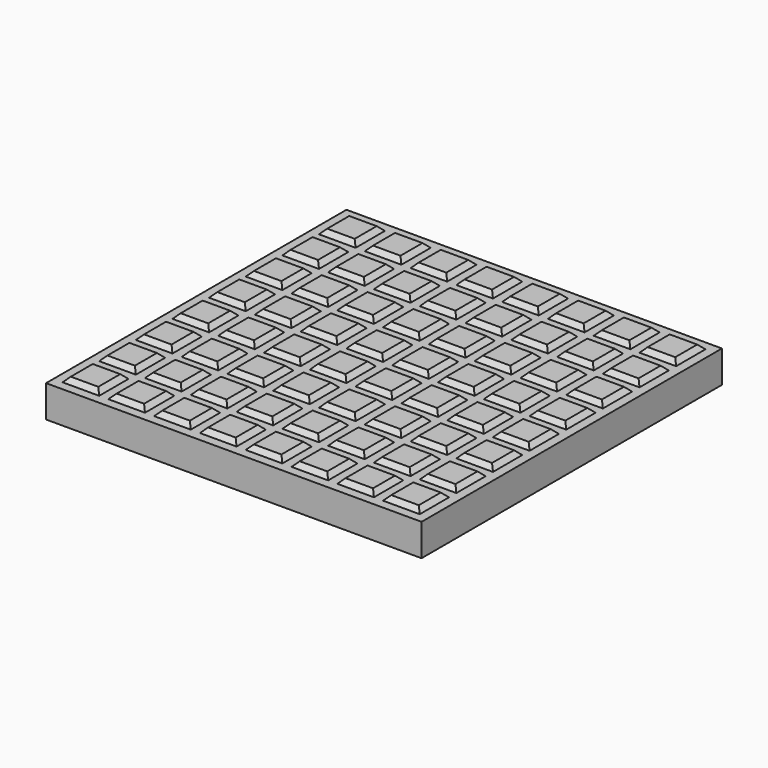
from build123d import *

# Parameters (mm, degrees)
F0_W     = 25.4
F0_H     = 25.4
F1_DEPTH = 25.4
F0_W_2   = 260.35
F0_H_2   = 260.35
F2_DEPTH = 22.225
F3_SIZE  = 3.175


with BuildPart() as f1:
    # F0 (on Top) → F1 (new body)
    with BuildSketch(Plane.XY):
        with Locations((15.875, 79.375)):
            Rectangle(F0_W, F0_H)
        with Locations((-47.625, -15.875)):
            Rectangle(F0_W, F0_H)
        with Locations((-111.125, -111.125)):
            Rectangle(F0_W, F0_H)
        with Locations((79.375, 79.375)):
            Rectangle(F0_W, F0_H)
        with Locations((-79.375, 47.625)):
            Rectangle(F0_W, F0_H)
        with Locations((-111.125, 111.125)):
            Rectangle(F0_W, F0_H)
        with Locations((-47.625, 111.125)):
            Rectangle(F0_W, F0_H)
        with Locations((-47.625, 79.375)):
            Rectangle(F0_W, F0_H)
        with Locations((15.875, 15.875)):
            Rectangle(F0_W, F0_H)
        with Locations((-15.875, 47.625)):
            Rectangle(F0_W, F0_H)
        with Locations((-79.375, 111.125)):
            Rectangle(F0_W, F0_H)
        with Locations((-47.625, 47.625)):
            Rectangle(F0_W, F0_H)
        with Locations((-79.375, -47.625)):
            Rectangle(F0_W, F0_H)
        with Locations((-47.625, -79.375)):
            Rectangle(F0_W, F0_H)
        with Locations((-111.125, 15.875)):
            Rectangle(F0_W, F0_H)
        with Locations((-15.875, -47.625)):
            Rectangle(F0_W, F0_H)
        with Locations((-111.125, 79.375)):
            Rectangle(F0_W, F0_H)
        with Locations((-79.375, 79.375)):
            Rectangle(F0_W, F0_H)
        with Locations((-111.125, -15.875)):
            Rectangle(F0_W, F0_H)
        with Locations((-79.375, -111.125)):
            Rectangle(F0_W, F0_H)
        with Locations((-15.875, -15.875)):
            Rectangle(F0_W, F0_H)
        with Locations((-15.875, -111.125)):
            Rectangle(F0_W, F0_H)
        with Locations((-79.375, -79.375)):
            Rectangle(F0_W, F0_H)
        with Locations((-47.625, -111.125)):
            Rectangle(F0_W, F0_H)
        with Locations((-111.125, 47.625)):
            Rectangle(F0_W, F0_H)
        with Locations((15.875, -111.125)):
            Rectangle(F0_W, F0_H)
        with Locations((79.375, 47.625)):
            Rectangle(F0_W, F0_H)
        with Locations((15.875, 111.125)):
            Rectangle(F0_W, F0_H)
        with Locations((79.375, 15.875)):
            Rectangle(F0_W, F0_H)
        with Locations((47.625, 15.875)):
            Rectangle(F0_W, F0_H)
        with Locations((79.375, -15.875)):
            Rectangle(F0_W, F0_H)
        with Locations((47.625, 47.625)):
            Rectangle(F0_W, F0_H)
        with Locations((15.875, 47.625)):
            Rectangle(F0_W, F0_H)
        with Locations((47.625, 79.375)):
            Rectangle(F0_W, F0_H)
        with Locations((47.625, 111.125)):
            Rectangle(F0_W, F0_H)
        with Locations((47.625, -15.875)):
            Rectangle(F0_W, F0_H)
        with Locations((-15.875, 15.875)):
            Rectangle(F0_W, F0_H)
        with Locations((79.375, -111.125)):
            Rectangle(F0_W, F0_H)
        with Locations((-15.875, 111.125)):
            Rectangle(F0_W, F0_H)
        with Locations((-15.875, -79.375)):
            Rectangle(F0_W, F0_H)
        with Locations((111.125, -15.875)):
            Rectangle(F0_W, F0_H)
        with Locations((79.375, 111.125)):
            Rectangle(F0_W, F0_H)
        with Locations((-79.375, 15.875)):
            Rectangle(F0_W, F0_H)
        with Locations((15.875, -15.875)):
            Rectangle(F0_W, F0_H)
        with Locations((111.125, -47.625)):
            Rectangle(F0_W, F0_H)
        with Locations((111.125, 79.375)):
            Rectangle(F0_W, F0_H)
        with Locations((15.875, -47.625)):
            Rectangle(F0_W, F0_H)
        with Locations((-47.625, -47.625)):
            Rectangle(F0_W, F0_H)
        with Locations((47.625, -47.625)):
            Rectangle(F0_W, F0_H)
        with Locations((-111.125, -47.625)):
            Rectangle(F0_W, F0_H)
        with Locations((111.125, 111.125)):
            Rectangle(F0_W, F0_H)
        with Locations((47.625, -111.125)):
            Rectangle(F0_W, F0_H)
        with Locations((-15.875, 79.375)):
            Rectangle(F0_W, F0_H)
        with Locations((-111.125, -79.375)):
            Rectangle(F0_W, F0_H)
        with Locations((79.375, -79.375)):
            Rectangle(F0_W, F0_H)
        with Locations((111.125, -111.125)):
            Rectangle(F0_W, F0_H)
        with Locations((111.125, 47.625)):
            Rectangle(F0_W, F0_H)
        with Locations((15.875, -79.375)):
            Rectangle(F0_W, F0_H)
        with Locations((-79.375, -15.875)):
            Rectangle(F0_W, F0_H)
        with Locations((47.625, -79.375)):
            Rectangle(F0_W, F0_H)
        with Locations((79.375, -47.625)):
            Rectangle(F0_W, F0_H)
        with Locations((-47.625, 15.875)):
            Rectangle(F0_W, F0_H)
        with Locations((111.125, 15.875)):
            Rectangle(F0_W, F0_H)
        with Locations((111.125, -79.375)):
            Rectangle(F0_W, F0_H)
    extrude(amount=F1_DEPTH)

    # F3
    f3_edges = [f1.edges().sort_by_distance(p)[0] for p in [
        (-98.425, 111.125, 25.4),
        (-111.125, 123.825, 25.4),
        (-123.825, 111.125, 25.4),
        (-111.125, 98.425, 25.4),
        (-111.125, 92.075, 25.4),
        (-123.825, 79.375, 25.4),
        (-111.125, 66.675, 25.4),
        (-98.425, 79.375, 25.4),
        (-111.125, 60.325, 25.4),
        (-123.825, 47.625, 25.4),
        (-111.125, 34.925, 25.4),
        (-98.425, 47.625, 25.4),
        (-123.825, 15.875, 25.4),
        (-111.125, 3.175, 25.4),
        (-98.425, 15.875, 25.4),
        (-111.125, 28.575, 25.4),
        (-111.125, -28.575, 25.4),
        (-98.425, -15.875, 25.4),
        (-111.125, -3.175, 25.4),
        (-123.825, -15.875, 25.4),
        (-111.125, -34.925, 25.4),
        (-123.825, -47.625, 25.4),
        (-111.125, -60.325, 25.4),
        (-98.425, -47.625, 25.4),
        (-111.125, -66.675, 25.4),
        (-123.825, -79.375, 25.4),
        (-111.125, -92.075, 25.4),
        (-98.425, -79.375, 25.4),
        (-111.125, -98.425, 25.4),
        (-123.825, -111.125, 25.4),
        (-111.125, -123.825, 25.4),
        (-98.425, -111.125, 25.4),
        (-79.375, -123.825, 25.4),
        (-66.675, -111.125, 25.4),
        (-79.375, -98.425, 25.4),
        (-92.075, -111.125, 25.4),
        (-92.075, -79.375, 25.4),
        (-79.375, -92.075, 25.4),
        (-66.675, -79.375, 25.4),
        (-79.375, -66.675, 25.4),
        (-92.075, -47.625, 25.4),
        (-79.375, -60.325, 25.4),
        (-66.675, -47.625, 25.4),
        (-79.375, -34.925, 25.4),
        (-92.075, -15.875, 25.4),
        (-79.375, -28.575, 25.4),
        (-66.675, -15.875, 25.4),
        (-79.375, -3.175, 25.4),
        (-66.675, 15.875, 25.4),
        (-79.375, 28.575, 25.4),
        (-92.075, 15.875, 25.4),
        (-79.375, 3.175, 25.4),
        (-79.375, 60.325, 25.4),
        (-92.075, 47.625, 25.4),
        (-79.375, 34.925, 25.4),
        (-66.675, 47.625, 25.4),
        (-79.375, 92.075, 25.4),
        (-92.075, 79.375, 25.4),
        (-79.375, 66.675, 25.4),
        (-66.675, 79.375, 25.4),
        (-66.675, 111.125, 25.4),
        (-79.375, 123.825, 25.4),
        (-92.075, 111.125, 25.4),
        (-79.375, 98.425, 25.4),
        (-34.925, 111.125, 25.4),
        (-47.625, 123.825, 25.4),
        (-60.325, 111.125, 25.4),
        (-47.625, 98.425, 25.4),
        (-47.625, 92.075, 25.4),
        (-60.325, 79.375, 25.4),
        (-47.625, 66.675, 25.4),
        (-34.925, 79.375, 25.4),
        (-47.625, 60.325, 25.4),
        (-60.325, 47.625, 25.4),
        (-47.625, 34.925, 25.4),
        (-34.925, 47.625, 25.4),
        (-34.925, 15.875, 25.4),
        (-47.625, 28.575, 25.4),
        (-60.325, 15.875, 25.4),
        (-47.625, 3.175, 25.4),
        (-60.325, -15.875, 25.4),
        (-47.625, -28.575, 25.4),
        (-34.925, -15.875, 25.4),
        (-47.625, -3.175, 25.4),
        (-60.325, -47.625, 25.4),
        (-47.625, -60.325, 25.4),
        (-34.925, -47.625, 25.4),
        (-47.625, -34.925, 25.4),
        (-60.325, -79.375, 25.4),
        (-47.625, -92.075, 25.4),
        (-34.925, -79.375, 25.4),
        (-47.625, -66.675, 25.4),
        (-47.625, -123.825, 25.4),
        (-34.925, -111.125, 25.4),
        (-47.625, -98.425, 25.4),
        (-60.325, -111.125, 25.4),
        (-28.575, 111.125, 25.4),
        (-15.875, 98.425, 25.4),
        (-3.175, 111.125, 25.4),
        (-15.875, 123.825, 25.4),
        (-15.875, 92.075, 25.4),
        (-28.575, 79.375, 25.4),
        (-15.875, 66.675, 25.4),
        (-3.175, 79.375, 25.4),
        (-15.875, 60.325, 25.4),
        (-28.575, 47.625, 25.4),
        (-15.875, 34.925, 25.4),
        (-3.175, 47.625, 25.4),
        (-3.175, 15.875, 25.4),
        (-15.875, 28.575, 25.4),
        (-28.575, 15.875, 25.4),
        (-15.875, 3.175, 25.4),
        (-15.875, -3.175, 25.4),
        (-28.575, -15.875, 25.4),
        (-15.875, -28.575, 25.4),
        (-3.175, -15.875, 25.4),
        (-15.875, -34.925, 25.4),
        (-28.575, -47.625, 25.4),
        (-15.875, -60.325, 25.4),
        (-3.175, -47.625, 25.4),
        (-15.875, -66.675, 25.4),
        (-28.575, -79.375, 25.4),
        (-15.875, -92.075, 25.4),
        (-3.175, -79.375, 25.4),
        (-15.875, -123.825, 25.4),
        (-3.175, -111.125, 25.4),
        (-15.875, -98.425, 25.4),
        (-28.575, -111.125, 25.4),
        (28.575, -111.125, 25.4),
        (15.875, -98.425, 25.4),
        (3.175, -111.125, 25.4),
        (15.875, -123.825, 25.4),
        (47.625, -123.825, 25.4),
        (60.325, -111.125, 25.4),
        (47.625, -98.425, 25.4),
        (34.925, -111.125, 25.4),
        (79.375, -123.825, 25.4),
        (92.075, -111.125, 25.4),
        (79.375, -98.425, 25.4),
        (66.675, -111.125, 25.4),
        (123.825, -111.125, 25.4),
        (111.125, -98.425, 25.4),
        (98.425, -111.125, 25.4),
        (111.125, -123.825, 25.4),
        (123.825, -79.375, 25.4),
        (111.125, -66.675, 25.4),
        (98.425, -79.375, 25.4),
        (111.125, -92.075, 25.4),
        (79.375, -92.075, 25.4),
        (92.075, -79.375, 25.4),
        (79.375, -66.675, 25.4),
        (66.675, -79.375, 25.4),
        (47.625, -92.075, 25.4),
        (60.325, -79.375, 25.4),
        (47.625, -66.675, 25.4),
        (34.925, -79.375, 25.4),
        (15.875, -92.075, 25.4),
        (28.575, -79.375, 25.4),
        (15.875, -66.675, 25.4),
        (3.175, -79.375, 25.4),
        (15.875, -60.325, 25.4),
        (28.575, -47.625, 25.4),
        (15.875, -34.925, 25.4),
        (3.175, -47.625, 25.4),
        (34.925, -15.875, 25.4),
        (47.625, -28.575, 25.4),
        (60.325, -15.875, 25.4),
        (47.625, -3.175, 25.4),
        (34.925, -47.625, 25.4),
        (47.625, -60.325, 25.4),
        (60.325, -47.625, 25.4),
        (47.625, -34.925, 25.4),
        (3.175, -15.875, 25.4),
        (15.875, -28.575, 25.4),
        (28.575, -15.875, 25.4),
        (15.875, -3.175, 25.4),
        (123.825, -15.875, 25.4),
        (111.125, -3.175, 25.4),
        (98.425, -15.875, 25.4),
        (111.125, -28.575, 25.4),
        (123.825, -47.625, 25.4),
        (111.125, -34.925, 25.4),
        (98.425, -47.625, 25.4),
        (111.125, -60.325, 25.4),
        (66.675, -47.625, 25.4),
        (79.375, -60.325, 25.4),
        (92.075, -47.625, 25.4),
        (79.375, -34.925, 25.4),
        (66.675, -15.875, 25.4),
        (79.375, -28.575, 25.4),
        (92.075, -15.875, 25.4),
        (79.375, -3.175, 25.4),
        (111.125, 28.575, 25.4),
        (98.425, 15.875, 25.4),
        (111.125, 3.175, 25.4),
        (123.825, 15.875, 25.4),
        (92.075, 15.875, 25.4),
        (79.375, 28.575, 25.4),
        (66.675, 15.875, 25.4),
        (79.375, 3.175, 25.4),
        (60.325, 15.875, 25.4),
        (47.625, 28.575, 25.4),
        (34.925, 15.875, 25.4),
        (47.625, 3.175, 25.4),
        (15.875, 3.175, 25.4),
        (28.575, 15.875, 25.4),
        (15.875, 28.575, 25.4),
        (3.175, 15.875, 25.4),
        (15.875, 34.925, 25.4),
        (28.575, 47.625, 25.4),
        (15.875, 60.325, 25.4),
        (3.175, 47.625, 25.4),
        (15.875, 66.675, 25.4),
        (28.575, 79.375, 25.4),
        (15.875, 92.075, 25.4),
        (3.175, 79.375, 25.4),
        (15.875, 123.825, 25.4),
        (3.175, 111.125, 25.4),
        (15.875, 98.425, 25.4),
        (28.575, 111.125, 25.4),
        (47.625, 34.925, 25.4),
        (60.325, 47.625, 25.4),
        (47.625, 60.325, 25.4),
        (34.925, 47.625, 25.4),
        (123.825, 47.625, 25.4),
        (111.125, 60.325, 25.4),
        (98.425, 47.625, 25.4),
        (111.125, 34.925, 25.4),
        (92.075, 47.625, 25.4),
        (79.375, 60.325, 25.4),
        (66.675, 47.625, 25.4),
        (79.375, 34.925, 25.4),
        (47.625, 92.075, 25.4),
        (34.925, 79.375, 25.4),
        (47.625, 66.675, 25.4),
        (60.325, 79.375, 25.4),
        (60.325, 111.125, 25.4),
        (47.625, 123.825, 25.4),
        (34.925, 111.125, 25.4),
        (47.625, 98.425, 25.4),
        (92.075, 79.375, 25.4),
        (79.375, 92.075, 25.4),
        (66.675, 79.375, 25.4),
        (79.375, 66.675, 25.4),
        (92.075, 111.125, 25.4),
        (79.375, 123.825, 25.4),
        (66.675, 111.125, 25.4),
        (79.375, 98.425, 25.4),
        (123.825, 79.375, 25.4),
        (111.125, 92.075, 25.4),
        (98.425, 79.375, 25.4),
        (111.125, 66.675, 25.4),
        (123.825, 111.125, 25.4),
        (111.125, 123.825, 25.4),
        (98.425, 111.125, 25.4),
        (111.125, 98.425, 25.4),
    ]]
    chamfer(f3_edges, length=F3_SIZE)


with BuildPart() as f2:
    # F0 (on Top) → F2 (new body)
    with BuildSketch(Plane.XY):
        Rectangle(F0_W_2, F0_H_2)
        Polygon((98.425, 123.825), (123.825, 123.825), (123.825, 98.425), (123.825, 92.075), (123.825, 66.675), (123.825, 60.325), (123.825, 34.925), (123.825, 28.575), (123.825, 3.175), (123.825, -3.175), (123.825, -28.575), (123.825, -34.925), (123.825, -60.325), (123.825, -66.675), (123.825, -92.075), (123.825, -98.425), (123.825, -123.825), (98.425, -123.825), (92.075, -123.825), (66.675, -123.825), (60.325, -123.825), (34.925, -123.825), (28.575, -123.825), (3.175, -123.825), (-3.175, -123.825), (-28.575, -123.825), (-34.925, -123.825), (-60.325, -123.825), (-66.675, -123.825), (-92.075, -123.825), (-98.425, -123.825), (-123.825, -123.825), (-123.825, -98.425), (-123.825, -92.075), (-123.825, -66.675), (-123.825, -60.325), (-123.825, -34.925), (-123.825, -28.575), (-123.825, -3.175), (-123.825, 3.175), (-123.825, 28.575), (-123.825, 34.925), (-123.825, 60.325), (-123.825, 66.675), (-123.825, 92.075), (-123.825, 98.425), (-123.825, 123.825), (-98.425, 123.825), (-92.075, 123.825), (-66.675, 123.825), (-60.325, 123.825), (-34.925, 123.825), (-28.575, 123.825), (-3.175, 123.825), (3.175, 123.825), (28.575, 123.825), (34.925, 123.825), (60.325, 123.825), (66.675, 123.825), (92.075, 123.825), align=None, mode=Mode.SUBTRACT)
        Polygon((98.425, 98.425), (98.425, 123.825), (92.075, 123.825), (92.075, 98.425), (66.675, 98.425), (66.675, 123.825), (60.325, 123.825), (60.325, 98.425), (34.925, 98.425), (34.925, 123.825), (28.575, 123.825), (28.575, 98.425), (3.175, 98.425), (3.175, 123.825), (-3.175, 123.825), (-3.175, 98.425), (-28.575, 98.425), (-28.575, 123.825), (-34.925, 123.825), (-34.925, 98.425), (-60.325, 98.425), (-60.325, 123.825), (-66.675, 123.825), (-66.675, 98.425), (-92.075, 98.425), (-92.075, 123.825), (-98.425, 123.825), (-98.425, 98.425), (-123.825, 98.425), (-123.825, 92.075), (-98.425, 92.075), (-98.425, 66.675), (-123.825, 66.675), (-123.825, 60.325), (-98.425, 60.325), (-98.425, 34.925), (-123.825, 34.925), (-123.825, 28.575), (-98.425, 28.575), (-98.425, 3.175), (-123.825, 3.175), (-123.825, -3.175), (-98.425, -3.175), (-98.425, -28.575), (-123.825, -28.575), (-123.825, -34.925), (-98.425, -34.925), (-98.425, -60.325), (-123.825, -60.325), (-123.825, -66.675), (-98.425, -66.675), (-98.425, -92.075), (-123.825, -92.075), (-123.825, -98.425), (-98.425, -98.425), (-98.425, -123.825), (-92.075, -123.825), (-92.075, -98.425), (-66.675, -98.425), (-66.675, -123.825), (-60.325, -123.825), (-60.325, -98.425), (-34.925, -98.425), (-34.925, -123.825), (-28.575, -123.825), (-28.575, -98.425), (-3.175, -98.425), (-3.175, -123.825), (3.175, -123.825), (3.175, -98.425), (28.575, -98.425), (28.575, -123.825), (34.925, -123.825), (34.925, -98.425), (60.325, -98.425), (60.325, -123.825), (66.675, -123.825), (66.675, -98.425), (92.075, -98.425), (92.075, -123.825), (98.425, -123.825), (98.425, -98.425), (123.825, -98.425), (123.825, -92.075), (98.425, -92.075), (98.425, -66.675), (123.825, -66.675), (123.825, -60.325), (98.425, -60.325), (98.425, -34.925), (123.825, -34.925), (123.825, -28.575), (98.425, -28.575), (98.425, -3.175), (123.825, -3.175), (123.825, 3.175), (98.425, 3.175), (98.425, 28.575), (123.825, 28.575), (123.825, 34.925), (98.425, 34.925), (98.425, 60.325), (123.825, 60.325), (123.825, 66.675), (98.425, 66.675), (98.425, 92.075), (123.825, 92.075), (123.825, 98.425), align=None)
        with Locations((-79.375, -79.375)):
            Rectangle(F0_W, F0_H, mode=Mode.SUBTRACT)
        with Locations((-47.625, -79.375)):
            Rectangle(F0_W, F0_H, mode=Mode.SUBTRACT)
        with Locations((-15.875, -79.375)):
            Rectangle(F0_W, F0_H, mode=Mode.SUBTRACT)
        with Locations((-79.375, -47.625)):
            Rectangle(F0_W, F0_H, mode=Mode.SUBTRACT)
        with Locations((-79.375, -15.875)):
            Rectangle(F0_W, F0_H, mode=Mode.SUBTRACT)
        with Locations((-47.625, -47.625)):
            Rectangle(F0_W, F0_H, mode=Mode.SUBTRACT)
        with Locations((-15.875, -47.625)):
            Rectangle(F0_W, F0_H, mode=Mode.SUBTRACT)
        with Locations((-47.625, -15.875)):
            Rectangle(F0_W, F0_H, mode=Mode.SUBTRACT)
        with Locations((-15.875, -15.875)):
            Rectangle(F0_W, F0_H, mode=Mode.SUBTRACT)
        with Locations((15.875, -79.375)):
            Rectangle(F0_W, F0_H, mode=Mode.SUBTRACT)
        with Locations((47.625, -79.375)):
            Rectangle(F0_W, F0_H, mode=Mode.SUBTRACT)
        with Locations((79.375, -79.375)):
            Rectangle(F0_W, F0_H, mode=Mode.SUBTRACT)
        with Locations((15.875, -47.625)):
            Rectangle(F0_W, F0_H, mode=Mode.SUBTRACT)
        with Locations((47.625, -47.625)):
            Rectangle(F0_W, F0_H, mode=Mode.SUBTRACT)
        with Locations((15.875, -15.875)):
            Rectangle(F0_W, F0_H, mode=Mode.SUBTRACT)
        with Locations((47.625, -15.875)):
            Rectangle(F0_W, F0_H, mode=Mode.SUBTRACT)
        with Locations((79.375, -47.625)):
            Rectangle(F0_W, F0_H, mode=Mode.SUBTRACT)
        with Locations((79.375, -15.875)):
            Rectangle(F0_W, F0_H, mode=Mode.SUBTRACT)
        with Locations((-79.375, 15.875)):
            Rectangle(F0_W, F0_H, mode=Mode.SUBTRACT)
        with Locations((-79.375, 47.625)):
            Rectangle(F0_W, F0_H, mode=Mode.SUBTRACT)
        with Locations((-47.625, 15.875)):
            Rectangle(F0_W, F0_H, mode=Mode.SUBTRACT)
        with Locations((-15.875, 15.875)):
            Rectangle(F0_W, F0_H, mode=Mode.SUBTRACT)
        with Locations((-47.625, 47.625)):
            Rectangle(F0_W, F0_H, mode=Mode.SUBTRACT)
        with Locations((-15.875, 47.625)):
            Rectangle(F0_W, F0_H, mode=Mode.SUBTRACT)
        with Locations((-79.375, 79.375)):
            Rectangle(F0_W, F0_H, mode=Mode.SUBTRACT)
        with Locations((-47.625, 79.375)):
            Rectangle(F0_W, F0_H, mode=Mode.SUBTRACT)
        with Locations((-15.875, 79.375)):
            Rectangle(F0_W, F0_H, mode=Mode.SUBTRACT)
        with Locations((15.875, 15.875)):
            Rectangle(F0_W, F0_H, mode=Mode.SUBTRACT)
        with Locations((47.625, 15.875)):
            Rectangle(F0_W, F0_H, mode=Mode.SUBTRACT)
        with Locations((15.875, 47.625)):
            Rectangle(F0_W, F0_H, mode=Mode.SUBTRACT)
        with Locations((47.625, 47.625)):
            Rectangle(F0_W, F0_H, mode=Mode.SUBTRACT)
        with Locations((79.375, 15.875)):
            Rectangle(F0_W, F0_H, mode=Mode.SUBTRACT)
        with Locations((79.375, 47.625)):
            Rectangle(F0_W, F0_H, mode=Mode.SUBTRACT)
        with Locations((15.875, 79.375)):
            Rectangle(F0_W, F0_H, mode=Mode.SUBTRACT)
        with Locations((47.625, 79.375)):
            Rectangle(F0_W, F0_H, mode=Mode.SUBTRACT)
        with Locations((79.375, 79.375)):
            Rectangle(F0_W, F0_H, mode=Mode.SUBTRACT)
    extrude(amount=F2_DEPTH)


solid = Compound([f1.part, f2.part])
